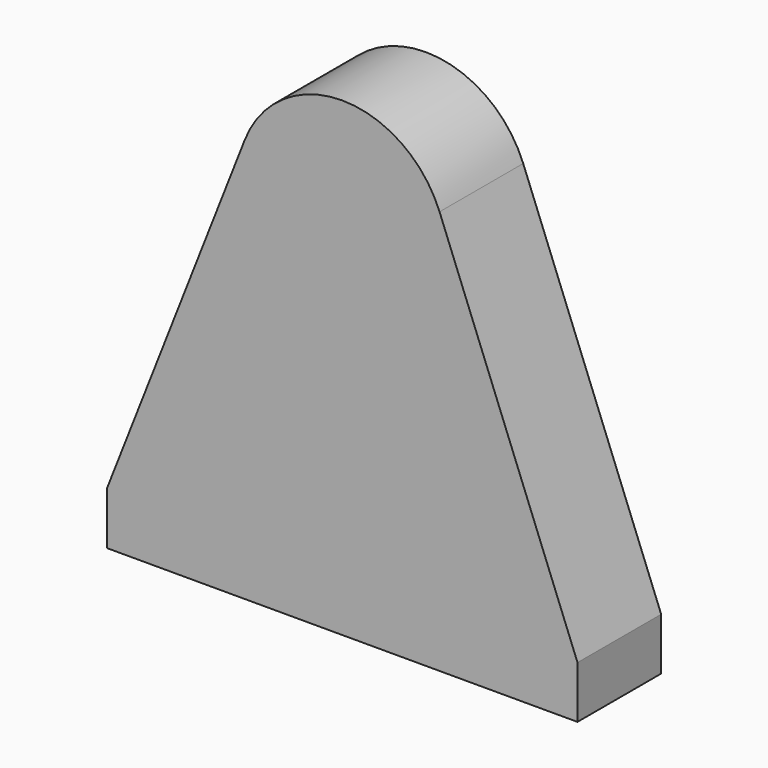
from build123d import *

# Parameters (mm, degrees)
F2_DEPTH = 25.4


with BuildPart() as f2:
    # F0 (on Front) → F2 (new body)
    with BuildSketch(Plane.XZ):
        with BuildLine():
            Line((57.15, -76.2), (23.648189, 9.269475))
            ThreePointArc((23.648189, 9.269475), (0, 25.4), (-23.648189, 9.269475))
            Line((-23.648189, 9.269475), (-57.15, -76.2))
            Line((-57.15, -76.2), (-57.15, -88.9))
            Line((-57.15, -88.9), (0, -88.9))
            Line((0, -88.9), (57.15, -88.9))
            Line((57.15, -88.9), (57.15, -76.2))
        make_face()
    extrude(amount=F2_DEPTH)


solid = f2.part
